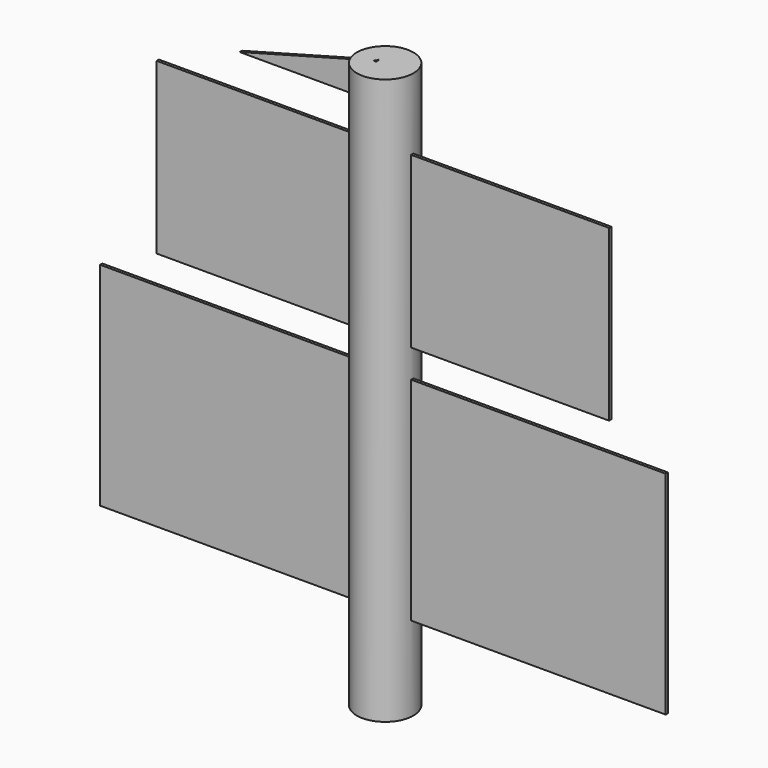
from build123d import *

# Parameters (mm, degrees)
F0_W     = 25.4
F0_H     = 508
F2_W     = 508
F2_H     = 190.5
F3_DEPTH = 2.54
F4_W     = 406.4
F4_H     = 152.4
F5_DEPTH = 2.54


with BuildPart() as f1:
    # F0 (on Front) → F1 (revolve)
    with BuildSketch(Plane.XZ):
        with Locations((12.7, 197.317208)):
            Rectangle(F0_W, F0_H)
    revolve(axis=Axis((0, 0, 197.317208), (0, 0, 1)))

    # F2 (on Front) → F3 (join)
    with BuildSketch(Plane.XZ):
        with Locations((0, 114.767208)):
            Rectangle(F2_W, F2_H)
    extrude(amount=F3_DEPTH)

    # F4 (on Front) → F5 (join)
    with BuildSketch(Plane.XZ):
        with Locations((0, 311.617208)):
            Rectangle(F4_W, F4_H)
        Polygon((-6.016195, 419.029802), (-6.016195, 452.049802), (-128.64849, 419.029802), align=None)
    extrude(amount=F5_DEPTH)


solid = f1.part
